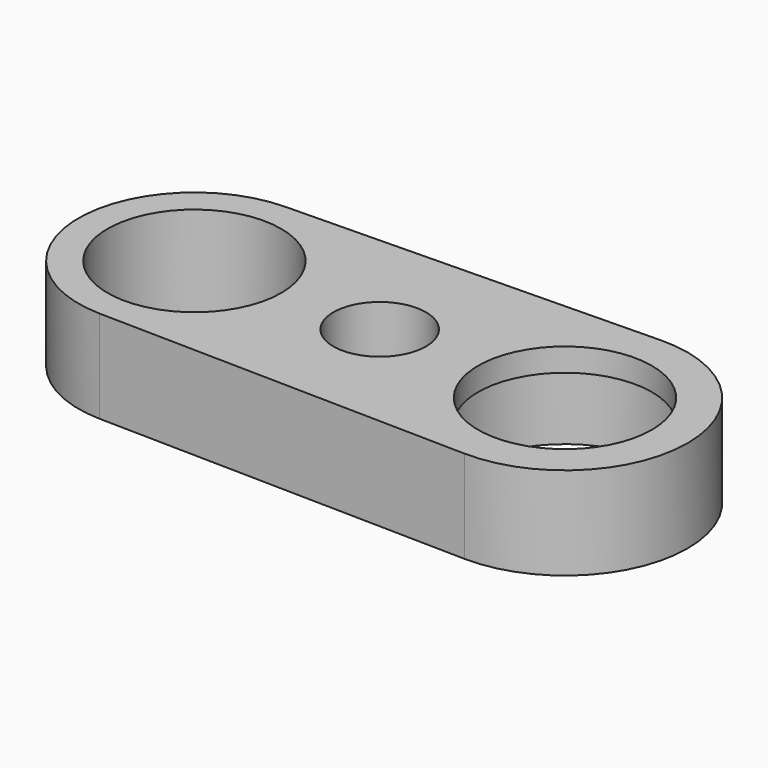
from build123d import *

# Parameters (mm, degrees)
SKETCH_R        = 7.5
SKETCH_R_2      = 4
PAD_DEPTH       = 8
SKETCH001_R     = 8.6
POCKET_DEPTH    = 6
POCKET001_DEPTH = 8.001


with BuildPart() as part:
    # Sketch → Pad (new body)
    with BuildSketch(Plane.XY):
        with BuildLine():
            ThreePointArc((-32.1875, 9.998242), (-42, 0), (-32.1875, -9.998242))
            Line((-32.1875, -9.998242), (-0.19875, -10.598137))
            ThreePointArc((-0.19875, -10.598137), (10.6, 0), (-0.19875, 10.598137))
            Line((-32.1875, 9.998242), (-0.19875, 10.598137))
        make_face()
        with Locations((-32, 0)):
            Circle(SKETCH_R, mode=Mode.SUBTRACT)
        Circle(SKETCH_R, mode=Mode.SUBTRACT)
        with Locations((-16, 0)):
            Circle(SKETCH_R_2, mode=Mode.SUBTRACT)
    extrude(amount=PAD_DEPTH)

    # Sketch001 → Pocket (cut)
    with BuildSketch(Plane(origin=(0, 0, 0), x_dir=(1, 0, 0), z_dir=(0, 0, -1))):
        Circle(SKETCH001_R)
    extrude(amount=-POCKET_DEPTH, mode=Mode.SUBTRACT)

    # Sketch002 → Pocket001 (cut, through all)
    with BuildSketch(Plane(origin=(0, 0, 0), x_dir=(1, 0, 0), z_dir=(0, 0, -1))):
        Polygon((-34.829016, 4.9), (-37.658033, 0), (-34.829016, -4.9), (-29.170984, -4.9), (-26.341967, 0), (-29.170984, 4.9), align=None)
    extrude(amount=-POCKET001_DEPTH, mode=Mode.SUBTRACT)


solid = part.part
